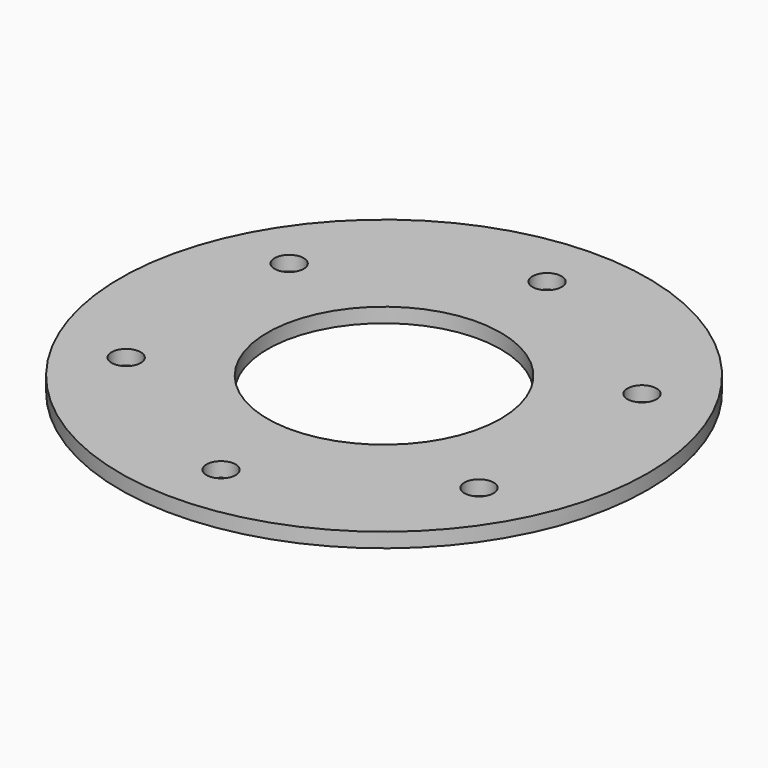
from build123d import *

# Parameters (mm, degrees)
F0_R     = 90.5
F0_R_2   = 5
F0_R_3   = 40
F1_DEPTH = 5


with BuildPart() as f1:
    # F0 (on Top) → F1 (new body)
    with BuildSketch(Plane.XY):
        Circle(F0_R)
        with Locations((-60.491874, -34.925)):
            Circle(F0_R_2, mode=Mode.SUBTRACT)
        with Locations((0, -69.85)):
            Circle(F0_R_2, mode=Mode.SUBTRACT)
        with Locations((60.491874, -34.925)):
            Circle(F0_R_2, mode=Mode.SUBTRACT)
        with Locations((-60.491874, 34.925)):
            Circle(F0_R_2, mode=Mode.SUBTRACT)
        Circle(F0_R_3, mode=Mode.SUBTRACT)
        with Locations((60.491874, 34.925)):
            Circle(F0_R_2, mode=Mode.SUBTRACT)
        with Locations((0, 69.85)):
            Circle(F0_R_2, mode=Mode.SUBTRACT)
    extrude(amount=F1_DEPTH)


solid = f1.part
